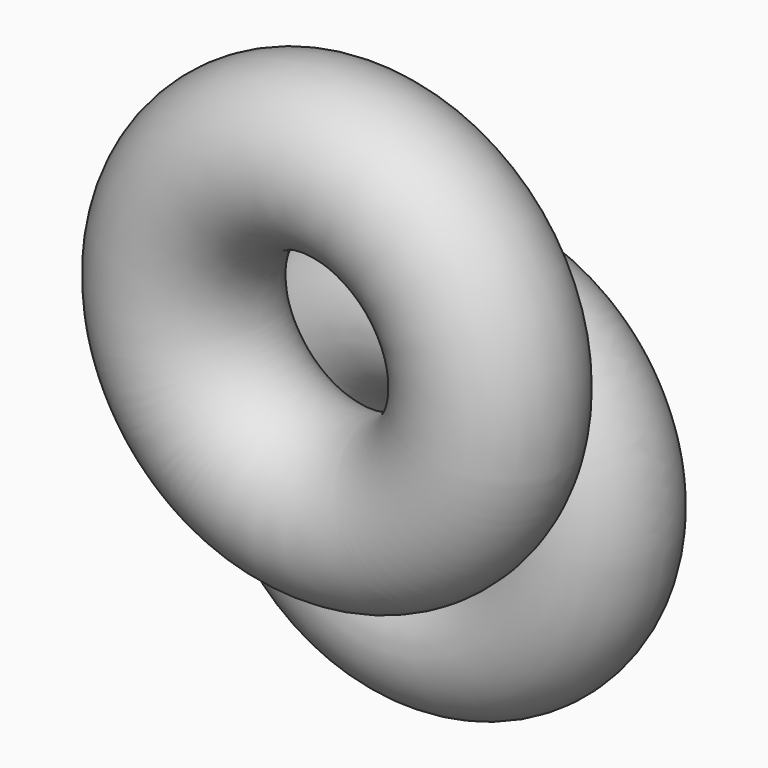
from build123d import *

# Parameters (mm, degrees)
F0_R = 18.356225
F3_R = 18.222285


with BuildPart() as f1:
    # F0 (on Top) → F1 (revolve)
    with BuildSketch(Plane.XY):
        with Locations((31.301904, 0)):
            Circle(F0_R)
    revolve(axis=Axis((0, 1.755249, 0), (0, -1, 0)))

    # F3 (on offset) → F4 (revolve)
    with BuildSketch(Plane.XY.offset(38.1)):
        with Locations((35.104938, -31.448174)):
            Circle(F3_R)
    revolve(axis=Axis((0, 4.826928, 38.1), (0, -1, 0)))


solid = f1.part
